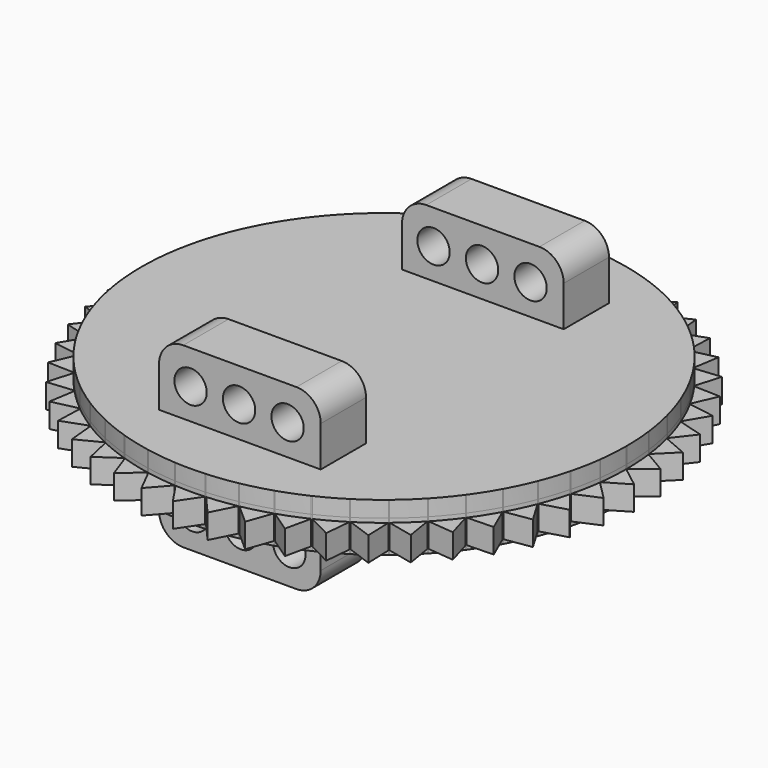
from build123d import *

# Parameters (mm, degrees)
F1_DEPTH  = 1.5
F2_DEPTH  = 2
F3_DEPTH  = 2
F4_W      = 20
F4_H      = 7
F5_DEPTH  = 12
F6_R      = 3
F8_R      = 2
F9_DEPTH  = 25
F10_DEPTH = 10
F11_R     = 3
F13_R     = 2
F14_DEPTH = 25


with BuildPart() as f1:
    # F0 (on Top) → F1 (new body, symmetric)
    with BuildSketch(Plane.XY):
        with BuildLine():
            ThreePointArc((29.9999451756, -0.05735382), (29.9999862939, -0.0286769231), (30, 0))
            ThreePointArc((30, 0), (29.9999862939, 0.0286769231), (29.9999451756, 0.05735382))
            ThreePointArc((29.9999451756, 0.05735382), (29.9408018528, 1.8837155859), (29.7705749871, 3.7030885676))
            ThreePointArc((29.7705749871, 3.7030885676), (29.7634410394, 3.7599970069), (29.7561983076, 3.8168917036))
            ThreePointArc((29.7561983076, 3.8168917036), (29.4686175219, 5.6214394376), (29.0717050469, 7.4051310364))
            ThreePointArc((29.0717050469, 7.4051310364), (29.0574948339, 7.4606966149), (29.0431784168, 7.516234925))
            ThreePointArc((29.0431784168, 7.516234925), (28.5316954889, 9.2705098312), (27.9143569516, 10.9903901651))
            ThreePointArc((27.9143569516, 10.9903901651), (27.8932945766, 11.0437365805), (27.8721302529, 11.0970426316))
            ThreePointArc((27.8721302529, 11.0970426316), (27.144811574, 12.773378747), (26.3167827719, 14.4023242756))
            ThreePointArc((26.3167827719, 14.4023242756), (26.2892004013, 14.4526102231), (26.2615219448, 14.5028433468))
            ThreePointArc((26.2615219448, 14.5028433468), (25.3298377651, 16.0748038494), (24.304177207, 17.5871251287))
            ThreePointArc((24.304177207, 17.5871251287), (24.2705098312, 17.6335575688), (24.2367537478, 17.6799255589))
            ThreePointArc((24.2367537478, 17.6799255589), (23.1153972833, 19.1227196925), (21.9082802489, 20.4945665125))
            ThreePointArc((21.9082802489, 20.4945665125), (21.8690588226, 20.5364131779), (21.8297574659, 20.5781847834))
            ThreePointArc((21.8297574659, 20.5781847834), (20.5364131779, 21.8690588226), (19.1668766239, 23.0787963396))
            ThreePointArc((19.1668766239, 23.0787963396), (19.1227196925, 23.1153972833), (19.0784928682, 23.1519137411))
            ThreePointArc((19.0784928682, 23.1519137411), (17.6335575688, 24.2705098312), (16.1231999049, 25.2990597617))
            ThreePointArc((16.1231999049, 25.2990597617), (16.0748038494, 25.3298377651), (16.0263490411, 25.3605231889))
            ThreePointArc((16.0263490411, 25.3605231889), (14.4526102231, 26.2892004013), (12.8252506918, 27.1203418985))
            ThreePointArc((12.8252506918, 27.1203418985), (12.773378747, 27.144811574), (12.7214601159, 27.1691820362))
            ThreePointArc((12.7214601159, 27.1691820362), (11.0437365805, 27.8932945766), (9.3250396139, 28.5139200427))
            ThreePointArc((9.3250396139, 28.5139200427), (9.2705098312, 28.5316954889), (9.2159461653, 28.5493666528))
            ThreePointArc((9.2159461653, 28.5493666528), (7.4606966149, 29.0574948339), (5.6777670907, 29.4578166344))
            ThreePointArc((5.6777670907, 29.4578166344), (5.6214394376, 29.4686175219), (5.5650912383, 29.4793107028))
            ThreePointArc((5.5650912383, 29.4793107028), (3.7599970069, 29.7634410394), (1.9409527888, 29.9371458605))
            ThreePointArc((1.9409527888, 29.9371458605), (1.8837155859, 29.9408018528), (1.8264714981, 29.9443484128))
            Line((1.8264714981, 29.9443484128), (-1.8264714981, 29.9443484128))
            ThreePointArc((-1.8264714981, 29.9443484128), (-1.8837155859, 29.9408018528), (-1.9409527888, 29.9371458605))
            ThreePointArc((-1.9409527888, 29.9371458605), (-3.7599970069, 29.7634410394), (-5.5650912383, 29.4793107028))
            ThreePointArc((-5.5650912383, 29.4793107028), (-5.6214394376, 29.4686175219), (-5.6777670907, 29.4578166344))
            ThreePointArc((-5.6777670907, 29.4578166344), (-7.4606966149, 29.0574948339), (-9.2159461653, 28.5493666528))
            ThreePointArc((-9.2159461653, 28.5493666528), (-9.2705098312, 28.5316954889), (-9.3250396139, 28.5139200427))
            ThreePointArc((-9.3250396139, 28.5139200427), (-11.0437365805, 27.8932945766), (-12.7214601159, 27.1691820362))
            ThreePointArc((-12.7214601159, 27.1691820362), (-12.773378747, 27.144811574), (-12.8252506918, 27.1203418985))
            ThreePointArc((-12.8252506918, 27.1203418985), (-14.4526102231, 26.2892004013), (-16.0263490411, 25.3605231889))
            ThreePointArc((-16.0263490411, 25.3605231889), (-16.0748038494, 25.3298377651), (-16.1231999049, 25.2990597617))
            ThreePointArc((-16.1231999049, 25.2990597617), (-17.6335575688, 24.2705098312), (-19.0784928682, 23.1519137411))
            ThreePointArc((-19.0784928682, 23.1519137411), (-19.1227196925, 23.1153972833), (-19.1668766239, 23.0787963396))
            ThreePointArc((-19.1668766239, 23.0787963396), (-20.5364131779, 21.8690588226), (-21.8297574659, 20.5781847834))
            ThreePointArc((-21.8297574659, 20.5781847834), (-21.8690588226, 20.5364131779), (-21.9082802489, 20.4945665125))
            ThreePointArc((-21.9082802489, 20.4945665125), (-23.1153972833, 19.1227196925), (-24.2367537478, 17.6799255589))
            ThreePointArc((-24.2367537478, 17.6799255589), (-24.2705098312, 17.6335575688), (-24.304177207, 17.5871251287))
            ThreePointArc((-24.304177207, 17.5871251287), (-25.3298377651, 16.0748038494), (-26.2615219448, 14.5028433468))
            ThreePointArc((-26.2615219448, 14.5028433468), (-26.2892004013, 14.4526102231), (-26.3167827719, 14.4023242756))
            ThreePointArc((-26.3167827719, 14.4023242756), (-27.144811574, 12.773378747), (-27.8721302529, 11.0970426316))
            ThreePointArc((-27.8721302529, 11.0970426316), (-27.8932945766, 11.0437365805), (-27.9143569516, 10.9903901651))
            ThreePointArc((-27.9143569516, 10.9903901651), (-28.5316954889, 9.2705098312), (-29.0431784168, 7.516234925))
            ThreePointArc((-29.0431784168, 7.516234925), (-29.0574948339, 7.4606966149), (-29.0717050469, 7.4051310364))
            ThreePointArc((-29.0717050469, 7.4051310364), (-29.4686175219, 5.6214394376), (-29.7561983076, 3.8168917036))
            ThreePointArc((-29.7561983076, 3.8168917036), (-29.7634410394, 3.7599970069), (-29.7705749871, 3.7030885676))
            ThreePointArc((-29.7705749871, 3.7030885676), (-29.9408018528, 1.8837155859), (-29.9999451756, 0.05735382))
            ThreePointArc((-29.9999451756, 0.05735382), (-30, 0), (-29.9999451756, -0.05735382))
            ThreePointArc((-29.9999451756, -0.05735382), (-29.9408018528, -1.8837155859), (-29.7705749871, -3.7030885676))
            ThreePointArc((-29.7705749871, -3.7030885676), (-29.7634410394, -3.7599970069), (-29.7561983076, -3.8168917036))
            ThreePointArc((-29.7561983076, -3.8168917036), (-29.4686175219, -5.6214394376), (-29.0717050469, -7.4051310364))
            ThreePointArc((-29.0717050469, -7.4051310364), (-29.0574948339, -7.4606966149), (-29.0431784168, -7.516234925))
            ThreePointArc((-29.0431784168, -7.516234925), (-28.5316954889, -9.2705098312), (-27.9143569516, -10.9903901651))
            ThreePointArc((-27.9143569516, -10.9903901651), (-27.8932945766, -11.0437365805), (-27.8721302529, -11.0970426316))
            ThreePointArc((-27.8721302529, -11.0970426316), (-27.144811574, -12.773378747), (-26.3167827719, -14.4023242756))
            ThreePointArc((-26.3167827719, -14.4023242756), (-26.2892004013, -14.4526102231), (-26.2615219448, -14.5028433468))
            ThreePointArc((-26.2615219448, -14.5028433468), (-25.3298377651, -16.0748038494), (-24.304177207, -17.5871251287))
            ThreePointArc((-24.304177207, -17.5871251287), (-24.2705098312, -17.6335575688), (-24.2367537478, -17.6799255589))
            ThreePointArc((-24.2367537478, -17.6799255589), (-23.1153972833, -19.1227196925), (-21.9082802489, -20.4945665125))
            ThreePointArc((-21.9082802489, -20.4945665125), (-21.8690588226, -20.5364131779), (-21.8297574659, -20.5781847834))
            ThreePointArc((-21.8297574659, -20.5781847834), (-20.5364131779, -21.8690588226), (-19.1668766239, -23.0787963396))
            ThreePointArc((-19.1668766239, -23.0787963396), (-19.1227196925, -23.1153972833), (-19.0784928682, -23.1519137411))
            ThreePointArc((-19.0784928682, -23.1519137411), (-17.6335575688, -24.2705098312), (-16.1231999049, -25.2990597617))
            ThreePointArc((-16.1231999049, -25.2990597617), (-16.0748038494, -25.3298377651), (-16.0263490411, -25.3605231889))
            ThreePointArc((-16.0263490411, -25.3605231889), (-14.4526102231, -26.2892004013), (-12.8252506918, -27.1203418985))
            ThreePointArc((-12.8252506918, -27.1203418985), (-12.773378747, -27.144811574), (-12.7214601159, -27.1691820362))
            ThreePointArc((-12.7214601159, -27.1691820362), (-11.0437365805, -27.8932945766), (-9.3250396139, -28.5139200427))
            ThreePointArc((-9.3250396139, -28.5139200427), (-9.2705098312, -28.5316954889), (-9.2159461653, -28.5493666528))
            ThreePointArc((-9.2159461653, -28.5493666528), (-7.4606966149, -29.0574948339), (-5.6777670907, -29.4578166344))
            ThreePointArc((-5.6777670907, -29.4578166344), (-5.6214394376, -29.4686175219), (-5.5650912383, -29.4793107028))
            ThreePointArc((-5.5650912383, -29.4793107028), (-3.7599970069, -29.7634410394), (-1.9409527888, -29.9371458605))
            ThreePointArc((-1.9409527888, -29.9371458605), (-1.8837155859, -29.9408018528), (-1.8264714981, -29.9443484128))
            ThreePointArc((-1.8264714981, -29.9443484128), (0, -30), (1.8264714981, -29.9443484128))
            ThreePointArc((1.8264714981, -29.9443484128), (1.8837155859, -29.9408018528), (1.9409527888, -29.9371458605))
            ThreePointArc((1.9409527888, -29.9371458605), (3.7599970069, -29.7634410394), (5.5650912383, -29.4793107028))
            ThreePointArc((5.5650912383, -29.4793107028), (5.6214394376, -29.4686175219), (5.6777670907, -29.4578166344))
            ThreePointArc((5.6777670907, -29.4578166344), (7.4606966149, -29.0574948339), (9.2159461653, -28.5493666528))
            ThreePointArc((9.2159461653, -28.5493666528), (9.2705098312, -28.5316954889), (9.3250396139, -28.5139200427))
            ThreePointArc((9.3250396139, -28.5139200427), (11.0437365805, -27.8932945766), (12.7214601159, -27.1691820362))
            ThreePointArc((12.7214601159, -27.1691820362), (12.773378747, -27.144811574), (12.8252506918, -27.1203418985))
            ThreePointArc((12.8252506918, -27.1203418985), (14.4526102231, -26.2892004013), (16.0263490411, -25.3605231889))
            ThreePointArc((16.0263490411, -25.3605231889), (16.0748038494, -25.3298377651), (16.1231999049, -25.2990597617))
            ThreePointArc((16.1231999049, -25.2990597617), (17.6335575688, -24.2705098312), (19.0784928682, -23.1519137411))
            ThreePointArc((19.0784928682, -23.1519137411), (19.1227196925, -23.1153972833), (19.1668766239, -23.0787963396))
            ThreePointArc((19.1668766239, -23.0787963396), (20.5364131779, -21.8690588226), (21.8297574659, -20.5781847834))
            ThreePointArc((21.8297574659, -20.5781847834), (21.8690588226, -20.5364131779), (21.9082802489, -20.4945665125))
            ThreePointArc((21.9082802489, -20.4945665125), (23.1153972833, -19.1227196925), (24.2367537478, -17.6799255589))
            ThreePointArc((24.2367537478, -17.6799255589), (24.2705098312, -17.6335575688), (24.304177207, -17.5871251287))
            ThreePointArc((24.304177207, -17.5871251287), (25.3298377651, -16.0748038494), (26.2615219448, -14.5028433468))
            ThreePointArc((26.2615219448, -14.5028433468), (26.2892004013, -14.4526102231), (26.3167827719, -14.4023242756))
            ThreePointArc((26.3167827719, -14.4023242756), (27.144811574, -12.773378747), (27.8721302529, -11.0970426316))
            ThreePointArc((27.8721302529, -11.0970426316), (27.8932945766, -11.0437365805), (27.9143569516, -10.9903901651))
            ThreePointArc((27.9143569516, -10.9903901651), (28.5316954889, -9.2705098312), (29.0431784168, -7.516234925))
            ThreePointArc((29.0431784168, -7.516234925), (29.0574948339, -7.4606966149), (29.0717050469, -7.4051310364))
            ThreePointArc((29.0717050469, -7.4051310364), (29.4686175219, -5.6214394376), (29.7561983076, -3.8168917036))
            ThreePointArc((29.7561983076, -3.8168917036), (29.7634410394, -3.7599970069), (29.7705749871, -3.7030885676))
            ThreePointArc((29.7705749871, -3.7030885676), (29.9408018528, -1.8837155859), (29.9999451756, -0.05735382))
        make_face()
        with BuildLine():
            ThreePointArc((29.7705749871, 3.7030885676), (29.9408018528, 1.8837155859), (29.9999451756, 0.05735382))
            Line((29.9999451756, 0.05735382), (32.5800900671, 2.0497655257))
            Line((32.5800900671, 2.0497655257), (29.7705749871, 3.7030885676))
        make_face()
        with BuildLine():
            Line((32.5800900671, -2.0497655257), (29.9999451756, -0.05735382))
            ThreePointArc((29.9999451756, -0.05735382), (29.9408018528, -1.8837155859), (29.7705749871, -3.7030885676))
            Line((29.7705749871, -3.7030885676), (32.5800900671, -2.0497655257))
        make_face()
        with BuildLine():
            ThreePointArc((29.0717050469, 7.4051310364), (29.4686175219, 5.6214394376), (29.7561983076, 3.8168917036))
            Line((29.7561983076, 3.8168917036), (32.0662825844, 6.1169705502))
            Line((32.0662825844, 6.1169705502), (29.0717050469, 7.4051310364))
        make_face()
        with BuildLine():
            Line((32.0662825844, -6.1169705502), (29.7561983076, -3.8168917036))
            ThreePointArc((29.7561983076, -3.8168917036), (29.4686175219, -5.6214394376), (29.0717050469, -7.4051310364))
            Line((29.0717050469, -7.4051310364), (32.0662825844, -6.1169705502))
        make_face()
        with BuildLine():
            ThreePointArc((27.9143569516, 10.9903901651), (28.5316954889, 9.2705098312), (29.0431784168, 7.516234925))
            Line((29.0431784168, 7.516234925), (31.0467706698, 10.087707295))
            Line((31.0467706698, 10.087707295), (27.9143569516, 10.9903901651))
        make_face()
        with BuildLine():
            Line((31.0467706698, -10.087707295), (29.0431784168, -7.516234925))
            ThreePointArc((29.0431784168, -7.516234925), (28.5316954889, -9.2705098312), (27.9143569516, -10.9903901651))
            Line((27.9143569516, -10.9903901651), (31.0467706698, -10.087707295))
        make_face()
        with BuildLine():
            ThreePointArc((26.3167827719, 14.4023242756), (27.144811574, 12.773378747), (27.8721302529, 11.0970426316))
            Line((27.8721302529, 11.0970426316), (29.5376326353, 13.8993548697))
            Line((29.5376326353, 13.8993548697), (26.3167827719, 14.4023242756))
        make_face()
        with BuildLine():
            Line((29.5376326353, -13.8993548697), (27.8721302529, -11.0970426316))
            ThreePointArc((27.8721302529, -11.0970426316), (27.144811574, -12.773378747), (26.3167827719, -14.4023242756))
            Line((26.3167827719, -14.4023242756), (29.5376326353, -13.8993548697))
        make_face()
        with BuildLine():
            ThreePointArc((24.304177207, 17.5871251287), (25.3298377651, 16.0748038494), (26.2615219448, 14.5028433468))
            Line((26.2615219448, 14.5028433468), (27.5626684892, 17.4918013151))
            Line((27.5626684892, 17.4918013151), (24.304177207, 17.5871251287))
        make_face()
        with BuildLine():
            Line((27.5626684892, -17.4918013151), (26.2615219448, -14.5028433468))
            ThreePointArc((26.2615219448, -14.5028433468), (25.3298377651, -16.0748038494), (24.304177207, -17.5871251287))
            Line((24.304177207, -17.5871251287), (27.5626684892, -17.4918013151))
        make_face()
        with BuildLine():
            ThreePointArc((21.9082802489, 20.4945665125), (23.1153972833, 19.1227196925), (24.2367537478, 17.6799255589))
            Line((24.2367537478, 17.6799255589), (25.1530245959, 20.8083916046))
            Line((25.1530245959, 20.8083916046), (21.9082802489, 20.4945665125))
        make_face()
        with BuildLine():
            Line((25.1530245959, -20.8083916046), (24.2367537478, -17.6799255589))
            ThreePointArc((24.2367537478, -17.6799255589), (23.1153972833, -19.1227196925), (21.9082802489, -20.4945665125))
            Line((21.9082802489, -20.4945665125), (25.1530245959, -20.8083916046))
        make_face()
        with BuildLine():
            ThreePointArc((19.1668766239, 23.0787963396), (20.5364131779, 21.8690588226), (21.8297574659, 20.5781847834))
            Line((21.8297574659, 20.5781847834), (22.3467024791, 23.7968211281))
            Line((22.3467024791, 23.7968211281), (19.1668766239, 23.0787963396))
        make_face()
        with BuildLine():
            Line((22.3467024791, -23.7968211281), (21.8297574659, -20.5781847834))
            ThreePointArc((21.8297574659, -20.5781847834), (20.5364131779, -21.8690588226), (19.1668766239, -23.0787963396))
            Line((19.1668766239, -23.0787963396), (22.3467024791, -23.7968211281))
        make_face()
        with BuildLine():
            ThreePointArc((16.1231999049, 25.2990597617), (17.6335575688, 24.2705098312), (19.0784928682, 23.1519137411))
            Line((19.0784928682, 23.1519137411), (19.1879595149, 26.409960567))
            Line((19.1879595149, 26.409960567), (16.1231999049, 25.2990597617))
        make_face()
        with BuildLine():
            Line((19.1879595149, -26.409960567), (19.0784928682, -23.1519137411))
            ThreePointArc((19.0784928682, -23.1519137411), (17.6335575688, -24.2705098312), (16.1231999049, -25.2990597617))
            Line((16.1231999049, -25.2990597617), (19.1879595149, -26.409960567))
        make_face()
        with BuildLine():
            ThreePointArc((12.8252506918, 27.1203418985), (14.4526102231, 26.2892004013), (16.0263490411, 25.3605231889))
            Line((16.0263490411, 25.3605231889), (15.7266109667, 28.6065991511))
            Line((15.7266109667, 28.6065991511), (12.8252506918, 27.1203418985))
        make_face()
        with BuildLine():
            Line((15.7266109667, -28.6065991511), (16.0263490411, -25.3605231889))
            ThreePointArc((16.0263490411, -25.3605231889), (14.4526102231, -26.2892004013), (12.8252506918, -27.1203418985))
            Line((12.8252506918, -27.1203418985), (15.7266109667, -28.6065991511))
        make_face()
        with BuildLine():
            ThreePointArc((9.3250396139, 28.5139200427), (11.0437365805, 27.8932945766), (12.7214601159, 27.1691820362))
            Line((12.7214601159, 27.1691820362), (12.0172443691, 30.3520945779))
            Line((12.0172443691, 30.3520945779), (9.3250396139, 28.5139200427))
        make_face()
        with BuildLine():
            Line((12.0172443691, -30.3520945779), (12.7214601159, -27.1691820362))
            ThreePointArc((12.7214601159, -27.1691820362), (11.0437365805, -27.8932945766), (9.3250396139, -28.5139200427))
            Line((9.3250396139, -28.5139200427), (12.0172443691, -30.3520945779))
        make_face()
        with BuildLine():
            ThreePointArc((5.6777670907, 29.4578166344), (7.4606966149, 29.0574948339), (9.2159461653, 28.5493666528))
            Line((9.2159461653, 28.5493666528), (8.1183586489, 31.6189193418))
            Line((8.1183586489, 31.6189193418), (5.6777670907, 29.4578166344))
        make_face()
        with BuildLine():
            Line((8.1183586489, -31.6189193418), (9.2159461653, -28.5493666528))
            ThreePointArc((9.2159461653, -28.5493666528), (7.4606966149, -29.0574948339), (5.6777670907, -29.4578166344))
            Line((5.6777670907, -29.4578166344), (8.1183586489, -31.6189193418))
        make_face()
        with BuildLine():
            ThreePointArc((1.9409527888, 29.9371458605), (3.7599970069, 29.7634410394), (5.5650912383, 29.4793107028))
            Line((5.5650912383, 29.4793107028), (4.0914415633, 32.3870948593))
            Line((4.0914415633, 32.3870948593), (1.9409527888, 29.9371458605))
        make_face()
        with BuildLine():
            Line((4.0914415633, -32.3870948593), (5.5650912383, -29.4793107028))
            ThreePointArc((5.5650912383, -29.4793107028), (3.7599970069, -29.7634410394), (1.9409527888, -29.9371458605))
            Line((1.9409527888, -29.9371458605), (4.0914415633, -32.3870948593))
        make_face()
        with BuildLine():
            Line((-1.8264714981, 29.9443484128), (1.8264714981, 29.9443484128))
            ThreePointArc((1.8264714981, 29.9443484128), (0, 30), (-1.8264714981, 29.9443484128))
        make_face()
        with BuildLine():
            ThreePointArc((-1.8264714981, 29.9443484128), (0, 30), (1.8264714981, 29.9443484128))
            Line((1.8264714981, 29.9443484128), (0, 32.6445065439))
            Line((0, 32.6445065439), (-1.8264714981, 29.9443484128))
        make_face()
        with BuildLine():
            Line((0, -32.6445065439), (1.8264714981, -29.9443484128))
            ThreePointArc((1.8264714981, -29.9443484128), (0, -30), (-1.8264714981, -29.9443484128))
            Line((-1.8264714981, -29.9443484128), (0, -32.6445065439))
        make_face()
        with BuildLine():
            ThreePointArc((-5.5650912383, 29.4793107028), (-3.7599970069, 29.7634410394), (-1.9409527888, 29.9371458605))
            Line((-1.9409527888, 29.9371458605), (-4.0914415633, 32.3870948593))
            Line((-4.0914415633, 32.3870948593), (-5.5650912383, 29.4793107028))
        make_face()
        with BuildLine():
            Line((-4.0914415633, -32.3870948593), (-1.9409527888, -29.9371458605))
            ThreePointArc((-1.9409527888, -29.9371458605), (-3.7599970069, -29.7634410394), (-5.5650912383, -29.4793107028))
            Line((-5.5650912383, -29.4793107028), (-4.0914415633, -32.3870948593))
        make_face()
        with BuildLine():
            ThreePointArc((-9.2159461653, 28.5493666528), (-7.4606966149, 29.0574948339), (-5.6777670907, 29.4578166344))
            Line((-5.6777670907, 29.4578166344), (-8.1183586489, 31.6189193418))
            Line((-8.1183586489, 31.6189193418), (-9.2159461653, 28.5493666528))
        make_face()
        with BuildLine():
            Line((-8.1183586489, -31.6189193418), (-5.6777670907, -29.4578166344))
            ThreePointArc((-5.6777670907, -29.4578166344), (-7.4606966149, -29.0574948339), (-9.2159461653, -28.5493666528))
            Line((-9.2159461653, -28.5493666528), (-8.1183586489, -31.6189193418))
        make_face()
        with BuildLine():
            ThreePointArc((-12.7214601159, 27.1691820362), (-11.0437365805, 27.8932945766), (-9.3250396139, 28.5139200427))
            Line((-9.3250396139, 28.5139200427), (-12.0172443691, 30.3520945779))
            Line((-12.0172443691, 30.3520945779), (-12.7214601159, 27.1691820362))
        make_face()
        with BuildLine():
            Line((-12.0172443691, -30.3520945779), (-9.3250396139, -28.5139200427))
            ThreePointArc((-9.3250396139, -28.5139200427), (-11.0437365805, -27.8932945766), (-12.7214601159, -27.1691820362))
            Line((-12.7214601159, -27.1691820362), (-12.0172443691, -30.3520945779))
        make_face()
        with BuildLine():
            ThreePointArc((-16.0263490411, 25.3605231889), (-14.4526102231, 26.2892004013), (-12.8252506918, 27.1203418985))
            Line((-12.8252506918, 27.1203418985), (-15.7266109667, 28.6065991511))
            Line((-15.7266109667, 28.6065991511), (-16.0263490411, 25.3605231889))
        make_face()
        with BuildLine():
            Line((-15.7266109667, -28.6065991511), (-12.8252506918, -27.1203418985))
            ThreePointArc((-12.8252506918, -27.1203418985), (-14.4526102231, -26.2892004013), (-16.0263490411, -25.3605231889))
            Line((-16.0263490411, -25.3605231889), (-15.7266109667, -28.6065991511))
        make_face()
        with BuildLine():
            ThreePointArc((-19.0784928682, 23.1519137411), (-17.6335575688, 24.2705098312), (-16.1231999049, 25.2990597617))
            Line((-16.1231999049, 25.2990597617), (-19.1879595149, 26.409960567))
            Line((-19.1879595149, 26.409960567), (-19.0784928682, 23.1519137411))
        make_face()
        with BuildLine():
            Line((-19.1879595149, -26.409960567), (-16.1231999049, -25.2990597617))
            ThreePointArc((-16.1231999049, -25.2990597617), (-17.6335575688, -24.2705098312), (-19.0784928682, -23.1519137411))
            Line((-19.0784928682, -23.1519137411), (-19.1879595149, -26.409960567))
        make_face()
        with BuildLine():
            ThreePointArc((-21.8297574659, 20.5781847834), (-20.5364131779, 21.8690588226), (-19.1668766239, 23.0787963396))
            Line((-19.1668766239, 23.0787963396), (-22.3467024791, 23.7968211281))
            Line((-22.3467024791, 23.7968211281), (-21.8297574659, 20.5781847834))
        make_face()
        with BuildLine():
            Line((-22.3467024791, -23.7968211281), (-19.1668766239, -23.0787963396))
            ThreePointArc((-19.1668766239, -23.0787963396), (-20.5364131779, -21.8690588226), (-21.8297574659, -20.5781847834))
            Line((-21.8297574659, -20.5781847834), (-22.3467024791, -23.7968211281))
        make_face()
        with BuildLine():
            ThreePointArc((-24.2367537478, 17.6799255589), (-23.1153972833, 19.1227196925), (-21.9082802489, 20.4945665125))
            Line((-21.9082802489, 20.4945665125), (-25.1530245959, 20.8083916046))
            Line((-25.1530245959, 20.8083916046), (-24.2367537478, 17.6799255589))
        make_face()
        with BuildLine():
            Line((-25.1530245959, -20.8083916046), (-21.9082802489, -20.4945665125))
            ThreePointArc((-21.9082802489, -20.4945665125), (-23.1153972833, -19.1227196925), (-24.2367537478, -17.6799255589))
            Line((-24.2367537478, -17.6799255589), (-25.1530245959, -20.8083916046))
        make_face()
        with BuildLine():
            ThreePointArc((-26.2615219448, 14.5028433468), (-25.3298377651, 16.0748038494), (-24.304177207, 17.5871251287))
            Line((-24.304177207, 17.5871251287), (-27.5626684892, 17.4918013151))
            Line((-27.5626684892, 17.4918013151), (-26.2615219448, 14.5028433468))
        make_face()
        with BuildLine():
            Line((-27.5626684892, -17.4918013151), (-24.304177207, -17.5871251287))
            ThreePointArc((-24.304177207, -17.5871251287), (-25.3298377651, -16.0748038494), (-26.2615219448, -14.5028433468))
            Line((-26.2615219448, -14.5028433468), (-27.5626684892, -17.4918013151))
        make_face()
        with BuildLine():
            ThreePointArc((-27.8721302529, 11.0970426316), (-27.144811574, 12.773378747), (-26.3167827719, 14.4023242756))
            Line((-26.3167827719, 14.4023242756), (-29.5376326353, 13.8993548697))
            Line((-29.5376326353, 13.8993548697), (-27.8721302529, 11.0970426316))
        make_face()
        with BuildLine():
            Line((-29.5376326353, -13.8993548697), (-26.3167827719, -14.4023242756))
            ThreePointArc((-26.3167827719, -14.4023242756), (-27.144811574, -12.773378747), (-27.8721302529, -11.0970426316))
            Line((-27.8721302529, -11.0970426316), (-29.5376326353, -13.8993548697))
        make_face()
        with BuildLine():
            ThreePointArc((-29.0431784168, 7.516234925), (-28.5316954889, 9.2705098312), (-27.9143569516, 10.9903901651))
            Line((-27.9143569516, 10.9903901651), (-31.0467706698, 10.087707295))
            Line((-31.0467706698, 10.087707295), (-29.0431784168, 7.516234925))
        make_face()
        with BuildLine():
            Line((-31.0467706698, -10.087707295), (-27.9143569516, -10.9903901651))
            ThreePointArc((-27.9143569516, -10.9903901651), (-28.5316954889, -9.2705098312), (-29.0431784168, -7.516234925))
            Line((-29.0431784168, -7.516234925), (-31.0467706698, -10.087707295))
        make_face()
        with BuildLine():
            ThreePointArc((-29.7561983076, 3.8168917036), (-29.4686175219, 5.6214394376), (-29.0717050469, 7.4051310364))
            Line((-29.0717050469, 7.4051310364), (-32.0662825844, 6.1169705502))
            Line((-32.0662825844, 6.1169705502), (-29.7561983076, 3.8168917036))
        make_face()
        with BuildLine():
            Line((-32.0662825844, -6.1169705502), (-29.0717050469, -7.4051310364))
            ThreePointArc((-29.0717050469, -7.4051310364), (-29.4686175219, -5.6214394376), (-29.7561983076, -3.8168917036))
            Line((-29.7561983076, -3.8168917036), (-32.0662825844, -6.1169705502))
        make_face()
        with BuildLine():
            ThreePointArc((-29.9999451756, 0.05735382), (-29.9408018528, 1.8837155859), (-29.7705749871, 3.7030885676))
            Line((-29.7705749871, 3.7030885676), (-32.5800900671, 2.0497655257))
            Line((-32.5800900671, 2.0497655257), (-29.9999451756, 0.05735382))
        make_face()
        with BuildLine():
            Line((-32.5800900671, -2.0497655257), (-29.7705749871, -3.7030885676))
            ThreePointArc((-29.7705749871, -3.7030885676), (-29.9408018528, -1.8837155859), (-29.9999451756, -0.05735382))
            Line((-29.9999451756, -0.05735382), (-32.5800900671, -2.0497655257))
        make_face()
    extrude(amount=F1_DEPTH, both=True)


with BuildPart() as f2:
    # F0 (on Top) → F2 (new body, symmetric)
    with BuildSketch(Plane.XY):
        with BuildLine():
            ThreePointArc((29.9999451756, -0.05735382), (29.9999862939, -0.0286769231), (30, 0))
            ThreePointArc((30, 0), (29.9999862939, 0.0286769231), (29.9999451756, 0.05735382))
            ThreePointArc((29.9999451756, 0.05735382), (29.9408018528, 1.8837155859), (29.7705749871, 3.7030885676))
            ThreePointArc((29.7705749871, 3.7030885676), (29.7634410394, 3.7599970069), (29.7561983076, 3.8168917036))
            ThreePointArc((29.7561983076, 3.8168917036), (29.4686175219, 5.6214394376), (29.0717050469, 7.4051310364))
            ThreePointArc((29.0717050469, 7.4051310364), (29.0574948339, 7.4606966149), (29.0431784168, 7.516234925))
            ThreePointArc((29.0431784168, 7.516234925), (28.5316954889, 9.2705098312), (27.9143569516, 10.9903901651))
            ThreePointArc((27.9143569516, 10.9903901651), (27.8932945766, 11.0437365805), (27.8721302529, 11.0970426316))
            ThreePointArc((27.8721302529, 11.0970426316), (27.144811574, 12.773378747), (26.3167827719, 14.4023242756))
            ThreePointArc((26.3167827719, 14.4023242756), (26.2892004013, 14.4526102231), (26.2615219448, 14.5028433468))
            ThreePointArc((26.2615219448, 14.5028433468), (25.3298377651, 16.0748038494), (24.304177207, 17.5871251287))
            ThreePointArc((24.304177207, 17.5871251287), (24.2705098312, 17.6335575688), (24.2367537478, 17.6799255589))
            ThreePointArc((24.2367537478, 17.6799255589), (23.1153972833, 19.1227196925), (21.9082802489, 20.4945665125))
            ThreePointArc((21.9082802489, 20.4945665125), (21.8690588226, 20.5364131779), (21.8297574659, 20.5781847834))
            ThreePointArc((21.8297574659, 20.5781847834), (20.5364131779, 21.8690588226), (19.1668766239, 23.0787963396))
            ThreePointArc((19.1668766239, 23.0787963396), (19.1227196925, 23.1153972833), (19.0784928682, 23.1519137411))
            ThreePointArc((19.0784928682, 23.1519137411), (17.6335575688, 24.2705098312), (16.1231999049, 25.2990597617))
            ThreePointArc((16.1231999049, 25.2990597617), (16.0748038494, 25.3298377651), (16.0263490411, 25.3605231889))
            ThreePointArc((16.0263490411, 25.3605231889), (14.4526102231, 26.2892004013), (12.8252506918, 27.1203418985))
            ThreePointArc((12.8252506918, 27.1203418985), (12.773378747, 27.144811574), (12.7214601159, 27.1691820362))
            ThreePointArc((12.7214601159, 27.1691820362), (11.0437365805, 27.8932945766), (9.3250396139, 28.5139200427))
            ThreePointArc((9.3250396139, 28.5139200427), (9.2705098312, 28.5316954889), (9.2159461653, 28.5493666528))
            ThreePointArc((9.2159461653, 28.5493666528), (7.4606966149, 29.0574948339), (5.6777670907, 29.4578166344))
            ThreePointArc((5.6777670907, 29.4578166344), (5.6214394376, 29.4686175219), (5.5650912383, 29.4793107028))
            ThreePointArc((5.5650912383, 29.4793107028), (3.7599970069, 29.7634410394), (1.9409527888, 29.9371458605))
            ThreePointArc((1.9409527888, 29.9371458605), (1.8837155859, 29.9408018528), (1.8264714981, 29.9443484128))
            Line((1.8264714981, 29.9443484128), (-1.8264714981, 29.9443484128))
            ThreePointArc((-1.8264714981, 29.9443484128), (-1.8837155859, 29.9408018528), (-1.9409527888, 29.9371458605))
            ThreePointArc((-1.9409527888, 29.9371458605), (-3.7599970069, 29.7634410394), (-5.5650912383, 29.4793107028))
            ThreePointArc((-5.5650912383, 29.4793107028), (-5.6214394376, 29.4686175219), (-5.6777670907, 29.4578166344))
            ThreePointArc((-5.6777670907, 29.4578166344), (-7.4606966149, 29.0574948339), (-9.2159461653, 28.5493666528))
            ThreePointArc((-9.2159461653, 28.5493666528), (-9.2705098312, 28.5316954889), (-9.3250396139, 28.5139200427))
            ThreePointArc((-9.3250396139, 28.5139200427), (-11.0437365805, 27.8932945766), (-12.7214601159, 27.1691820362))
            ThreePointArc((-12.7214601159, 27.1691820362), (-12.773378747, 27.144811574), (-12.8252506918, 27.1203418985))
            ThreePointArc((-12.8252506918, 27.1203418985), (-14.4526102231, 26.2892004013), (-16.0263490411, 25.3605231889))
            ThreePointArc((-16.0263490411, 25.3605231889), (-16.0748038494, 25.3298377651), (-16.1231999049, 25.2990597617))
            ThreePointArc((-16.1231999049, 25.2990597617), (-17.6335575688, 24.2705098312), (-19.0784928682, 23.1519137411))
            ThreePointArc((-19.0784928682, 23.1519137411), (-19.1227196925, 23.1153972833), (-19.1668766239, 23.0787963396))
            ThreePointArc((-19.1668766239, 23.0787963396), (-20.5364131779, 21.8690588226), (-21.8297574659, 20.5781847834))
            ThreePointArc((-21.8297574659, 20.5781847834), (-21.8690588226, 20.5364131779), (-21.9082802489, 20.4945665125))
            ThreePointArc((-21.9082802489, 20.4945665125), (-23.1153972833, 19.1227196925), (-24.2367537478, 17.6799255589))
            ThreePointArc((-24.2367537478, 17.6799255589), (-24.2705098312, 17.6335575688), (-24.304177207, 17.5871251287))
            ThreePointArc((-24.304177207, 17.5871251287), (-25.3298377651, 16.0748038494), (-26.2615219448, 14.5028433468))
            ThreePointArc((-26.2615219448, 14.5028433468), (-26.2892004013, 14.4526102231), (-26.3167827719, 14.4023242756))
            ThreePointArc((-26.3167827719, 14.4023242756), (-27.144811574, 12.773378747), (-27.8721302529, 11.0970426316))
            ThreePointArc((-27.8721302529, 11.0970426316), (-27.8932945766, 11.0437365805), (-27.9143569516, 10.9903901651))
            ThreePointArc((-27.9143569516, 10.9903901651), (-28.5316954889, 9.2705098312), (-29.0431784168, 7.516234925))
            ThreePointArc((-29.0431784168, 7.516234925), (-29.0574948339, 7.4606966149), (-29.0717050469, 7.4051310364))
            ThreePointArc((-29.0717050469, 7.4051310364), (-29.4686175219, 5.6214394376), (-29.7561983076, 3.8168917036))
            ThreePointArc((-29.7561983076, 3.8168917036), (-29.7634410394, 3.7599970069), (-29.7705749871, 3.7030885676))
            ThreePointArc((-29.7705749871, 3.7030885676), (-29.9408018528, 1.8837155859), (-29.9999451756, 0.05735382))
            ThreePointArc((-29.9999451756, 0.05735382), (-30, 0), (-29.9999451756, -0.05735382))
            ThreePointArc((-29.9999451756, -0.05735382), (-29.9408018528, -1.8837155859), (-29.7705749871, -3.7030885676))
            ThreePointArc((-29.7705749871, -3.7030885676), (-29.7634410394, -3.7599970069), (-29.7561983076, -3.8168917036))
            ThreePointArc((-29.7561983076, -3.8168917036), (-29.4686175219, -5.6214394376), (-29.0717050469, -7.4051310364))
            ThreePointArc((-29.0717050469, -7.4051310364), (-29.0574948339, -7.4606966149), (-29.0431784168, -7.516234925))
            ThreePointArc((-29.0431784168, -7.516234925), (-28.5316954889, -9.2705098312), (-27.9143569516, -10.9903901651))
            ThreePointArc((-27.9143569516, -10.9903901651), (-27.8932945766, -11.0437365805), (-27.8721302529, -11.0970426316))
            ThreePointArc((-27.8721302529, -11.0970426316), (-27.144811574, -12.773378747), (-26.3167827719, -14.4023242756))
            ThreePointArc((-26.3167827719, -14.4023242756), (-26.2892004013, -14.4526102231), (-26.2615219448, -14.5028433468))
            ThreePointArc((-26.2615219448, -14.5028433468), (-25.3298377651, -16.0748038494), (-24.304177207, -17.5871251287))
            ThreePointArc((-24.304177207, -17.5871251287), (-24.2705098312, -17.6335575688), (-24.2367537478, -17.6799255589))
            ThreePointArc((-24.2367537478, -17.6799255589), (-23.1153972833, -19.1227196925), (-21.9082802489, -20.4945665125))
            ThreePointArc((-21.9082802489, -20.4945665125), (-21.8690588226, -20.5364131779), (-21.8297574659, -20.5781847834))
            ThreePointArc((-21.8297574659, -20.5781847834), (-20.5364131779, -21.8690588226), (-19.1668766239, -23.0787963396))
            ThreePointArc((-19.1668766239, -23.0787963396), (-19.1227196925, -23.1153972833), (-19.0784928682, -23.1519137411))
            ThreePointArc((-19.0784928682, -23.1519137411), (-17.6335575688, -24.2705098312), (-16.1231999049, -25.2990597617))
            ThreePointArc((-16.1231999049, -25.2990597617), (-16.0748038494, -25.3298377651), (-16.0263490411, -25.3605231889))
            ThreePointArc((-16.0263490411, -25.3605231889), (-14.4526102231, -26.2892004013), (-12.8252506918, -27.1203418985))
            ThreePointArc((-12.8252506918, -27.1203418985), (-12.773378747, -27.144811574), (-12.7214601159, -27.1691820362))
            ThreePointArc((-12.7214601159, -27.1691820362), (-11.0437365805, -27.8932945766), (-9.3250396139, -28.5139200427))
            ThreePointArc((-9.3250396139, -28.5139200427), (-9.2705098312, -28.5316954889), (-9.2159461653, -28.5493666528))
            ThreePointArc((-9.2159461653, -28.5493666528), (-7.4606966149, -29.0574948339), (-5.6777670907, -29.4578166344))
            ThreePointArc((-5.6777670907, -29.4578166344), (-5.6214394376, -29.4686175219), (-5.5650912383, -29.4793107028))
            ThreePointArc((-5.5650912383, -29.4793107028), (-3.7599970069, -29.7634410394), (-1.9409527888, -29.9371458605))
            ThreePointArc((-1.9409527888, -29.9371458605), (-1.8837155859, -29.9408018528), (-1.8264714981, -29.9443484128))
            ThreePointArc((-1.8264714981, -29.9443484128), (0, -30), (1.8264714981, -29.9443484128))
            ThreePointArc((1.8264714981, -29.9443484128), (1.8837155859, -29.9408018528), (1.9409527888, -29.9371458605))
            ThreePointArc((1.9409527888, -29.9371458605), (3.7599970069, -29.7634410394), (5.5650912383, -29.4793107028))
            ThreePointArc((5.5650912383, -29.4793107028), (5.6214394376, -29.4686175219), (5.6777670907, -29.4578166344))
            ThreePointArc((5.6777670907, -29.4578166344), (7.4606966149, -29.0574948339), (9.2159461653, -28.5493666528))
            ThreePointArc((9.2159461653, -28.5493666528), (9.2705098312, -28.5316954889), (9.3250396139, -28.5139200427))
            ThreePointArc((9.3250396139, -28.5139200427), (11.0437365805, -27.8932945766), (12.7214601159, -27.1691820362))
            ThreePointArc((12.7214601159, -27.1691820362), (12.773378747, -27.144811574), (12.8252506918, -27.1203418985))
            ThreePointArc((12.8252506918, -27.1203418985), (14.4526102231, -26.2892004013), (16.0263490411, -25.3605231889))
            ThreePointArc((16.0263490411, -25.3605231889), (16.0748038494, -25.3298377651), (16.1231999049, -25.2990597617))
            ThreePointArc((16.1231999049, -25.2990597617), (17.6335575688, -24.2705098312), (19.0784928682, -23.1519137411))
            ThreePointArc((19.0784928682, -23.1519137411), (19.1227196925, -23.1153972833), (19.1668766239, -23.0787963396))
            ThreePointArc((19.1668766239, -23.0787963396), (20.5364131779, -21.8690588226), (21.8297574659, -20.5781847834))
            ThreePointArc((21.8297574659, -20.5781847834), (21.8690588226, -20.5364131779), (21.9082802489, -20.4945665125))
            ThreePointArc((21.9082802489, -20.4945665125), (23.1153972833, -19.1227196925), (24.2367537478, -17.6799255589))
            ThreePointArc((24.2367537478, -17.6799255589), (24.2705098312, -17.6335575688), (24.304177207, -17.5871251287))
            ThreePointArc((24.304177207, -17.5871251287), (25.3298377651, -16.0748038494), (26.2615219448, -14.5028433468))
            ThreePointArc((26.2615219448, -14.5028433468), (26.2892004013, -14.4526102231), (26.3167827719, -14.4023242756))
            ThreePointArc((26.3167827719, -14.4023242756), (27.144811574, -12.773378747), (27.8721302529, -11.0970426316))
            ThreePointArc((27.8721302529, -11.0970426316), (27.8932945766, -11.0437365805), (27.9143569516, -10.9903901651))
            ThreePointArc((27.9143569516, -10.9903901651), (28.5316954889, -9.2705098312), (29.0431784168, -7.516234925))
            ThreePointArc((29.0431784168, -7.516234925), (29.0574948339, -7.4606966149), (29.0717050469, -7.4051310364))
            ThreePointArc((29.0717050469, -7.4051310364), (29.4686175219, -5.6214394376), (29.7561983076, -3.8168917036))
            ThreePointArc((29.7561983076, -3.8168917036), (29.7634410394, -3.7599970069), (29.7705749871, -3.7030885676))
            ThreePointArc((29.7705749871, -3.7030885676), (29.9408018528, -1.8837155859), (29.9999451756, -0.05735382))
        make_face()
    extrude(amount=F2_DEPTH, both=True)


with BuildPart() as f3:
    # F3 (new): a face of the model
    f3_faces = [f2.part.faces().sort_by_distance(p)[0] for p in [
        (0, -0.0014367324, 2),
    ]]
    extrude(f3_faces, amount=F3_DEPTH)


with BuildPart() as f5:
    # F4 (on Top) → F5 (new body)
    with BuildSketch(Plane.XY):
        with Locations((0, 18.7837886624)):
            Rectangle(F4_W, F4_H)
    extrude(amount=F5_DEPTH)

    # F6
    f6_edges = [f5.edges().sort_by_distance(p)[0] for p in [
        (10, 18.783789, 12),
        (-10, 18.783789, 12),
    ]]
    fillet(f6_edges, radius=F6_R)


with BuildPart() as f7_1:
    # F7: instance of F5
    add(f5.part.mirror(Plane.XZ))


with BuildPart() as f9_tool:
    # F8 (on Front) → F9 (new body, symmetric)
    with BuildSketch(Plane.XZ):
        with Locations((5.9007438831, 7.8001068905)):
            Circle(F8_R)
        with Locations((-0.0992561169, 7.8001068905)):
            Circle(F8_R)
        with Locations((-6.0992561169, 7.8001068905)):
            Circle(F8_R)
    extrude(amount=F9_DEPTH, both=True)


with BuildPart() as f5_1:
    add(f5.part)

    # F9: cut by f9_tool
    add(f9_tool.part, mode=Mode.SUBTRACT)


with BuildPart() as f7_1_1:
    add(f7_1.part)

    # F9: cut by f9_tool
    add(f9_tool.part, mode=Mode.SUBTRACT)


with BuildPart() as f10:
    # F4 (on Top) → F10 (new body)
    with BuildSketch(Plane.XY):
        with Locations((0, 18.7837886624)):
            Rectangle(F4_W, F4_H)
    extrude(amount=-F10_DEPTH)

    # F11
    f11_edges = [f10.edges().sort_by_distance(p)[0] for p in [
        (10, 18.783789, -10),
        (-10, 18.783789, -10),
    ]]
    fillet(f11_edges, radius=F11_R)


with BuildPart() as f12_1:
    # F12: instance of F10
    add(f10.part.mirror(Plane.XZ))


with BuildPart() as f14_tool:
    # F13 (on Front) → F14 (new body, symmetric)
    with BuildSketch(Plane.XZ):
        with Locations((6.1204838566, -5.9128385037)):
            Circle(F13_R)
        with Locations((0.1204838566, -5.9128385037)):
            Circle(F13_R)
        with Locations((-5.8795161434, -5.9128385037)):
            Circle(F13_R)
    extrude(amount=F14_DEPTH, both=True)


with BuildPart() as f10_1:
    add(f10.part)

    # F14: cut by f14_tool
    add(f14_tool.part, mode=Mode.SUBTRACT)


with BuildPart() as f12_1_1:
    add(f12_1.part)

    # F14: cut by f14_tool
    add(f14_tool.part, mode=Mode.SUBTRACT)


solid = Compound([f1.part, f2.part, f3.part, f5_1.part, f7_1_1.part, f10_1.part, f12_1_1.part])
